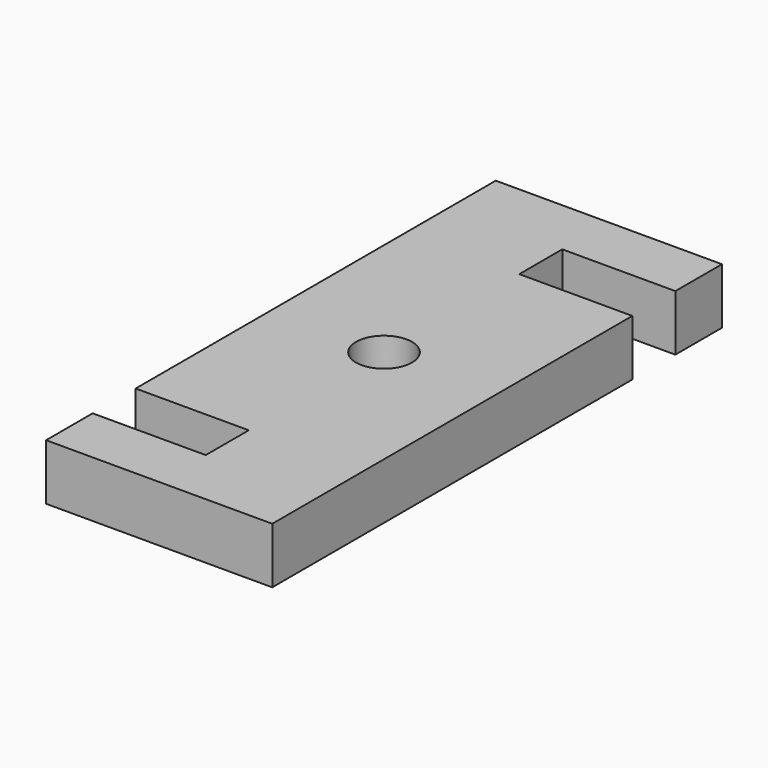
from build123d import *

# Parameters (mm, degrees)
SKETCH012_R = 2.5
PAD_DEPTH   = 5


with BuildPart() as part:
    # Sketch012 → Pad (new body)
    with BuildSketch(Plane(origin=(0, -5, 100), x_dir=(1, 0, 0), z_dir=(0, 0, 1))):
        Polygon((-10.1, 25.1), (10.1, 25.1), (10.1, 19.9), (0, 19.9), (0, 15.1), (10.1, 15.1), (10.1, -25.1), (-10.1, -25.1), (-10.1, -19.9), (0, -19.9), (0, -15.1), (-10.1, -15.1), align=None)
        Circle(SKETCH012_R, mode=Mode.SUBTRACT)
    extrude(amount=PAD_DEPTH)


solid = part.part
